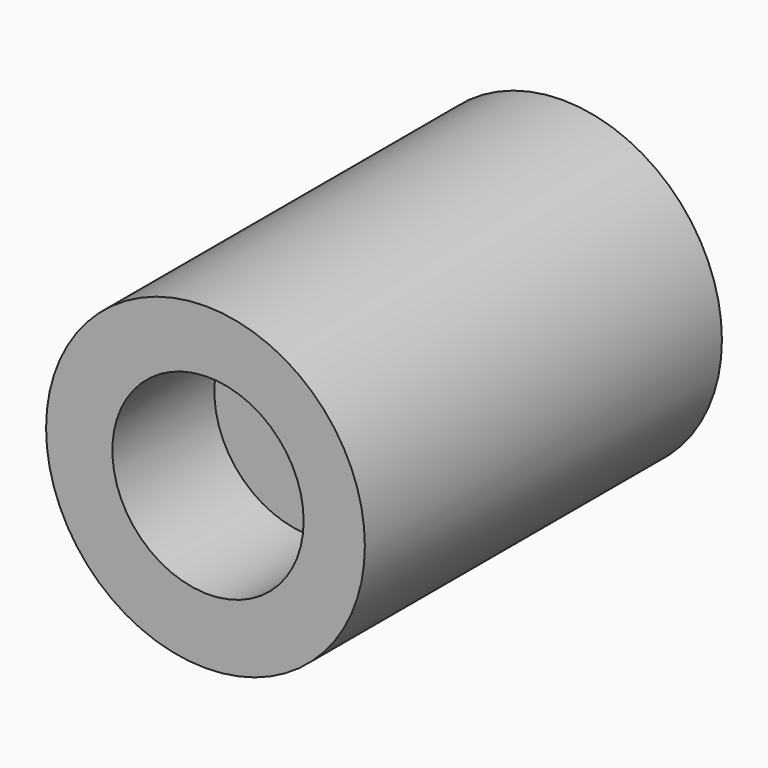
from build123d import *

# Parameters (mm, degrees)
F0_R     = 50
F1_DEPTH = 140
F2_R     = 30
F3_DEPTH = 40
F4_R     = 10
F5_DEPTH = 80


with BuildPart() as f1:
    # F0 (on Front) → F1 (new body)
    with BuildSketch(Plane.XZ):
        Circle(F0_R)
    extrude(amount=F1_DEPTH)

    # F2 (on face) → F3 (cut)
    with BuildSketch(Plane.XZ.offset(140)):
        with Locations((0.78905, 0.631243)):
            Circle(F2_R)
    extrude(amount=-F3_DEPTH, mode=Mode.SUBTRACT)

    # F4 (on face) → F5 (cut)
    with BuildSketch(Plane.XZ.offset(100)):
        Circle(F4_R)
    extrude(amount=-F5_DEPTH, mode=Mode.SUBTRACT)


solid = f1.part
